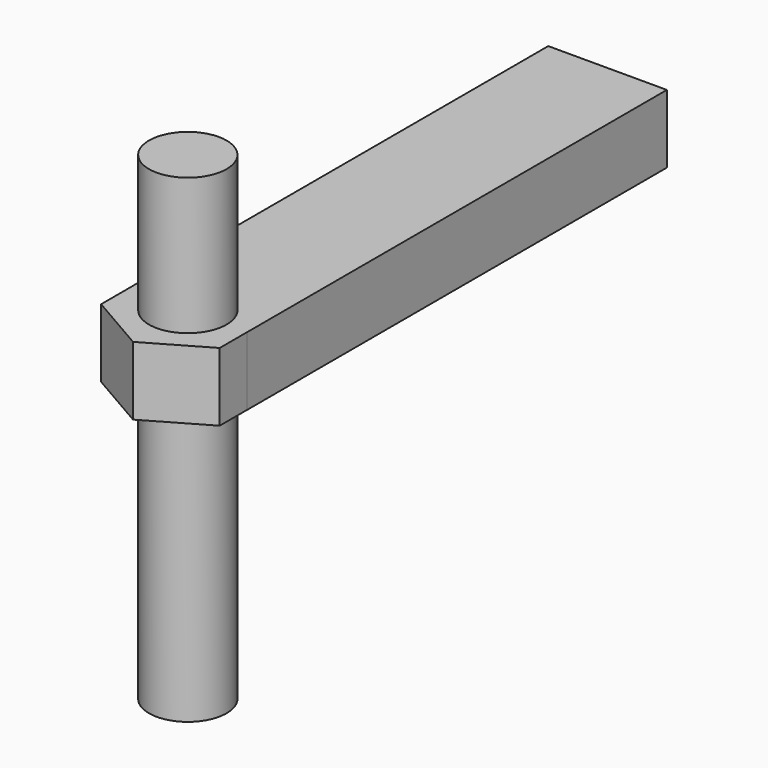
from build123d import *

# Parameters (mm, degrees)
CYLINDER025_R             = 1.7
CYLINDER025_DEPTH         = 21
BOX006_W                  = 23
BOX006_H                  = 5.2
BOX006_DEPTH              = 3
PRISM002_DEPTH            = 3
FUSION008_ROLL_ANGLE      = 180
FUSION008_PLACEMENT_ANGLE = 90


with BuildPart() as cilindro025:
    # Cylinder025 → Cylinder025 (new body)
    with BuildSketch(Plane.XY.offset(-6)):
        Circle(CYLINDER025_R)
    extrude(amount=CYLINDER025_DEPTH)


with BuildPart() as cubo005:
    # Box006 → Box006 (new body)
    with BuildSketch(Plane(origin=(0, -2.6, 0), x_dir=(1, 0, 0), z_dir=(0, 0, 1))):
        with Locations((11.5, 2.6)):
            Rectangle(BOX006_W, BOX006_H)
    extrude(amount=BOX006_DEPTH)


with BuildPart() as hueco_tornillo002:
    # Prism002 → Prism002 (new body)
    with BuildSketch(Plane.XY):
        Polygon((3, 0), (1.5, 2.598076), (-1.5, 2.598076), (-3, 0), (-1.5, -2.598076), (1.5, -2.598076), align=None)
    extrude(amount=PRISM002_DEPTH)

    # Fusion008: union Cilindro025, Cubo005
    add(cilindro025.part)
    add(cubo005.part)


with BuildPart() as hueco_tornillo002_1:
    # Fusion008 roll: moved
    add(hueco_tornillo002.part.rotate(Axis((0, 0, 0), (1, 0, 0)), FUSION008_ROLL_ANGLE))


with BuildPart() as hueco_tornillo002_2:
    # Fusion008 placement: moved
    add(hueco_tornillo002_1.part.moved(Location((159, 0, 62))).rotate(Axis((159, 0, 62), (0, 0, 1)), FUSION008_PLACEMENT_ANGLE))


solid = hueco_tornillo002_2.part
